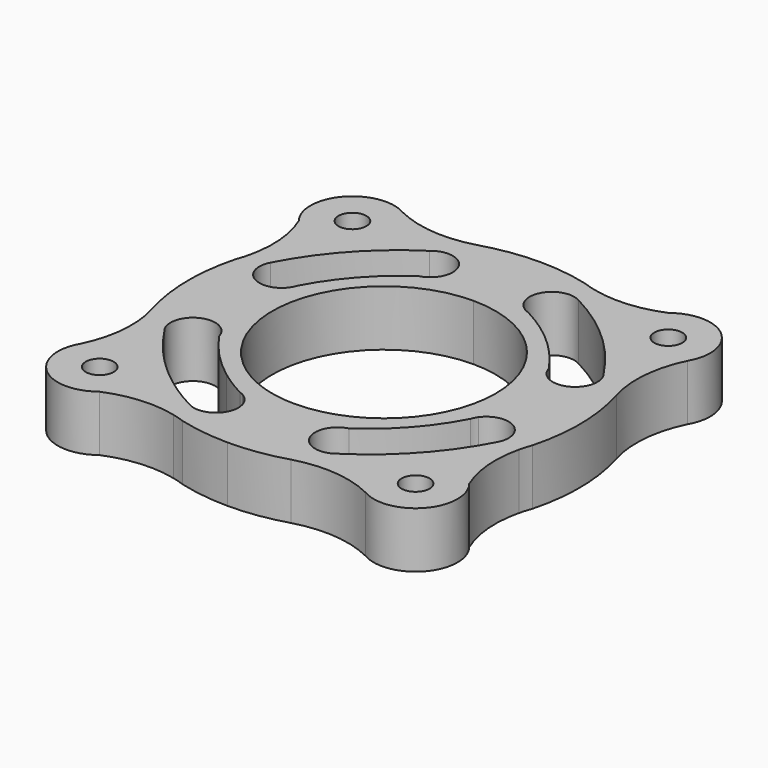
from build123d import *

# Parameters (mm, degrees)
F0_R     = 2.5
F1_DEPTH = 10


with BuildPart() as f1:
    # F0 (on Top) → F1 (new body)
    with BuildSketch(Plane.XY):
        with BuildLine():
            Line((0, 20), (0, 35))
            ThreePointArc((0, 35), (-5.139641441, 34.620573159), (-10.1678475726, 33.4905191919))
            ThreePointArc((-10.1678475726, 33.4905191919), (-17.4537155293, 32.7918602935), (-24.5030527862, 34.7613374775))
            ThreePointArc((-24.5030527862, 34.7613374775), (-33.9418390183, 33.2078803829), (-34.1772546288, 23.6450097903))
            ThreePointArc((-34.1772546288, 23.6450097903), (-32.6723351007, 17.5032995342), (-33.160041137, 11.1987352765))
            ThreePointArc((-33.160041137, 11.1987352765), (-33.458628369, 10.0963588308), (-33.819654198, 9.012823638))
            ThreePointArc((-33.819654198, 9.012823638), (-34.994848156, -0.6005019029), (-33.4905191919, -10.1678475726))
            ThreePointArc((-33.4905191919, -10.1678475726), (-32.7918602935, -17.4537155293), (-34.7613374775, -24.5030527862))
            ThreePointArc((-34.7613374775, -24.5030527862), (-33.2078803829, -33.9418390183), (-23.6450097903, -34.1772546288))
            Line((-23.6450097903, -34.1772546288), (-17.5740434932, -25.4020854569))
            ThreePointArc((-17.5740434932, -25.4020854569), (-23.2594177785, -20.2640007089), (-27.9671079942, -14.2174274252))
            ThreePointArc((-27.9671079942, -14.2174274252), (-28.3098834226, -13.75089028), (-28.5817235471, -13.2397593292))
            ThreePointArc((-28.5817235471, -13.2397593292), (-26.2736614667, -7.8567708386), (-21.0708003204, -10.5463714686))
            ThreePointArc((-21.0708003204, -10.5463714686), (-17.4350672969, -15.0731601026), (-13.1010093591, -18.936618624))
            Line((-13.1010093591, -18.936618624), (-11.3789397329, -16.447484019))
            ThreePointArc((-11.3789397329, -16.447484019), (-19.0912241669, 5.9602986343), (0, 20))
        make_face()
        with Locations((-28.2842712475, -28.2842712475)):
            Circle(F0_R, mode=Mode.SUBTRACT)
        with BuildLine():
            ThreePointArc((-13.2397593292, 28.5817235471), (-7.8567708386, 26.2736614667), (-10.5463714686, 21.0708003204))
            ThreePointArc((-10.5463714686, 21.0708003204), (-17.096723239, 15.3462606412), (-22.0329337989, 8.1830708377))
            ThreePointArc((-22.0329337989, 8.1830708377), (-22.2601624756, 7.6240701847), (-22.5688933039, 7.1056110472))
            ThreePointArc((-22.5688933039, 7.1056110472), (-27.9497329821, 6.0062080975), (-29.3563625566, 11.3150230056))
            ThreePointArc((-29.3563625566, 11.3150230056), (-22.869546271, 20.6253378904), (-14.2174274252, 27.9671079942))
            ThreePointArc((-14.2174274252, 27.9671079942), (-13.75089028, 28.3098834226), (-13.2397593292, 28.5817235471))
        make_face(mode=Mode.SUBTRACT)
        with Locations((-28.2842712475, 28.2842712475)):
            Circle(F0_R, mode=Mode.SUBTRACT)
        with BuildLine():
            ThreePointArc((9.012823638, 33.819654198), (4.5448929069, 34.7036590069), (0, 35))
            Line((0, 35), (0, 20))
            ThreePointArc((0, 20), (7.6536686473, 18.4775906502), (14.1421356237, 14.1421356237))
            ThreePointArc((14.1421356237, 14.1421356237), (18.4775906502, 7.6536686473), (20, 0))
            ThreePointArc((20, 0), (14.1421356237, -14.1421356237), (0, -20))
            Line((0, -20), (0, -35))
            ThreePointArc((0, -35), (5.139641441, -34.620573159), (10.1678475726, -33.4905191919))
            ThreePointArc((10.1678475726, -33.4905191919), (17.4537155293, -32.7918602935), (24.5030527862, -34.7613374775))
            ThreePointArc((24.5030527862, -34.7613374775), (33.9418390183, -33.2078803829), (34.1772546288, -23.6450097903))
            ThreePointArc((34.1772546288, -23.6450097903), (32.6723351007, -17.5032995342), (33.160041137, -11.1987352765))
            ThreePointArc((33.160041137, -11.1987352765), (33.458628369, -10.0963588308), (33.819654198, -9.012823638))
            ThreePointArc((33.819654198, -9.012823638), (34.994848156, 0.6005019029), (33.4905191919, 10.1678475726))
            ThreePointArc((33.4905191919, 10.1678475726), (32.7918602935, 17.4537155293), (34.7613374775, 24.5030527862))
            ThreePointArc((34.7613374775, 24.5030527862), (33.2078803829, 33.9418390183), (23.6450097903, 34.1772546288))
            ThreePointArc((23.6450097903, 34.1772546288), (17.5032995342, 32.6723351007), (11.1987352765, 33.160041137))
            ThreePointArc((11.1987352765, 33.160041137), (10.0963588308, 33.458628369), (9.012823638, 33.819654198))
        make_face()
        with Locations((28.2842712475, -28.2842712475)):
            Circle(F0_R, mode=Mode.SUBTRACT)
        with BuildLine():
            ThreePointArc((13.2397593292, -28.5817235471), (7.8567708386, -26.2736614667), (10.5463714686, -21.0708003204))
            ThreePointArc((10.5463714686, -21.0708003204), (17.096723239, -15.3462606412), (22.0329337989, -8.1830708377))
            ThreePointArc((22.0329337989, -8.1830708377), (22.2601624756, -7.6240701847), (22.5688933039, -7.1056110472))
            ThreePointArc((22.5688933039, -7.1056110472), (27.9497329821, -6.0062080975), (29.3563625566, -11.3150230056))
            ThreePointArc((29.3563625566, -11.3150230056), (22.869546271, -20.6253378904), (14.2174274252, -27.9671079942))
            ThreePointArc((14.2174274252, -27.9671079942), (13.75089028, -28.3098834226), (13.2397593292, -28.5817235471))
        make_face(mode=Mode.SUBTRACT)
        with BuildLine():
            ThreePointArc((21.0708003204, 10.5463714686), (18.8162828052, 13.5301163041), (16.2562788277, 16.2562788277))
            ThreePointArc((16.2562788277, 16.2562788277), (12.4255192438, 19.432285732), (8.1830708377, 22.0329337989))
            ThreePointArc((8.1830708377, 22.0329337989), (7.6240701847, 22.2601624756), (7.1056110472, 22.5688933039))
            ThreePointArc((7.1056110472, 22.5688933039), (6.0062080975, 27.9497329821), (11.3150230056, 29.3563625566))
            ThreePointArc((11.3150230056, 29.3563625566), (16.8273746655, 25.9546878233), (21.7805752556, 21.7805752556))
            ThreePointArc((21.7805752556, 21.7805752556), (25.0844366917, 18.1712647028), (27.9671079942, 14.2174274252))
            ThreePointArc((27.9671079942, 14.2174274252), (28.3098834226, 13.75089028), (28.5817235471, 13.2397593292))
            ThreePointArc((28.5817235471, 13.2397593292), (26.2736614667, 7.8567708386), (21.0708003204, 10.5463714686))
        make_face(mode=Mode.SUBTRACT)
        with BuildLine():
            ThreePointArc((30.7842712475, 28.2842712475), (29.2409798284, 25.9745724162), (26.5165042945, 26.5165042945))
            ThreePointArc((26.5165042945, 26.5165042945), (27.3275626665, 30.5939700787), (30.7842712475, 28.2842712475))
        make_face(mode=Mode.SUBTRACT)
        with BuildLine():
            ThreePointArc((-6.8404028665, -18.7938524157), (-9.1849045913, -17.7661905778), (-11.3789397329, -16.447484019))
            Line((-11.3789397329, -16.447484019), (-13.1010093591, -18.936618624))
            ThreePointArc((-13.1010093591, -18.936618624), (-10.7064161122, -20.587025905), (-8.1830708377, -22.0329337989))
            ThreePointArc((-8.1830708377, -22.0329337989), (-8.1100323796, -22.0571549298), (-8.0374733682, -22.0827765885))
            Line((-8.0374733682, -22.0827765885), (-6.8404028665, -18.7938524157))
        make_face()
        with BuildLine():
            ThreePointArc((-9.012823638, -33.819654198), (-4.5448929069, -34.7036590069), (0, -35))
            Line((0, -35), (0, -20))
            ThreePointArc((0, -20), (-2.5970816611, -19.8306622896), (-5.150184936, -19.3255166846))
            Line((-5.150184936, -19.3255166846), (-6.2363085662, -23.4010791347))
            ThreePointArc((-6.2363085662, -23.4010791347), (-5.5404506045, -26.8715840588), (-7.8711189882, -29.5355299322))
            Line((-7.8711189882, -29.5355299322), (-9.012823638, -33.819654198))
        make_face()
        with BuildLine():
            ThreePointArc((-5.150184936, -19.3255166846), (-5.7778055515, -19.1472442667), (-6.3992773009, -18.9485949354))
            Line((-6.3992773009, -18.9485949354), (-7.5333779836, -22.3067263997))
            ThreePointArc((-7.5333779836, -22.3067263997), (-7.315380073, -22.4310964856), (-7.1056110472, -22.5688933039))
            ThreePointArc((-7.1056110472, -22.5688933039), (-6.6394848179, -22.9521074021), (-6.2363085662, -23.4010791347))
            Line((-6.2363085662, -23.4010791347), (-5.150184936, -19.3255166846))
        make_face()
        with BuildLine():
            ThreePointArc((-11.1987352765, -33.160041137), (-10.0963588308, -33.458628369), (-9.012823638, -33.819654198))
            Line((-9.012823638, -33.819654198), (-7.8711189882, -29.5355299322))
            ThreePointArc((-7.8711189882, -29.5355299322), (-8.9477708121, -29.8152650544), (-10.0598273225, -29.7876750907))
            Line((-10.0598273225, -29.7876750907), (-11.1987352765, -33.160041137))
        make_face()
        with BuildLine():
            ThreePointArc((-23.6450097903, -34.1772546288), (-17.5032995342, -32.6723351007), (-11.1987352765, -33.160041137))
            Line((-11.1987352765, -33.160041137), (-10.0598273225, -29.7876750907))
            ThreePointArc((-10.0598273225, -29.7876750907), (-10.7054391121, -29.6244425953), (-11.3150230056, -29.3563625566))
            ThreePointArc((-11.3150230056, -29.3563625566), (-14.5278498189, -27.5111014909), (-17.5740434932, -25.4020854569))
            Line((-17.5740434932, -25.4020854569), (-23.6450097903, -34.1772546288))
        make_face()
        with BuildLine():
            ThreePointArc((-6.3992773009, -18.9485949354), (-6.6202922175, -18.8725125766), (-6.8404028665, -18.7938524157))
            Line((-6.8404028665, -18.7938524157), (-8.0374733682, -22.0827765885))
            ThreePointArc((-8.0374733682, -22.0827765885), (-7.7815607221, -22.1860517531), (-7.5333779836, -22.3067263997))
            Line((-7.5333779836, -22.3067263997), (-6.3992773009, -18.9485949354))
        make_face()
    extrude(amount=F1_DEPTH)


solid = f1.part
